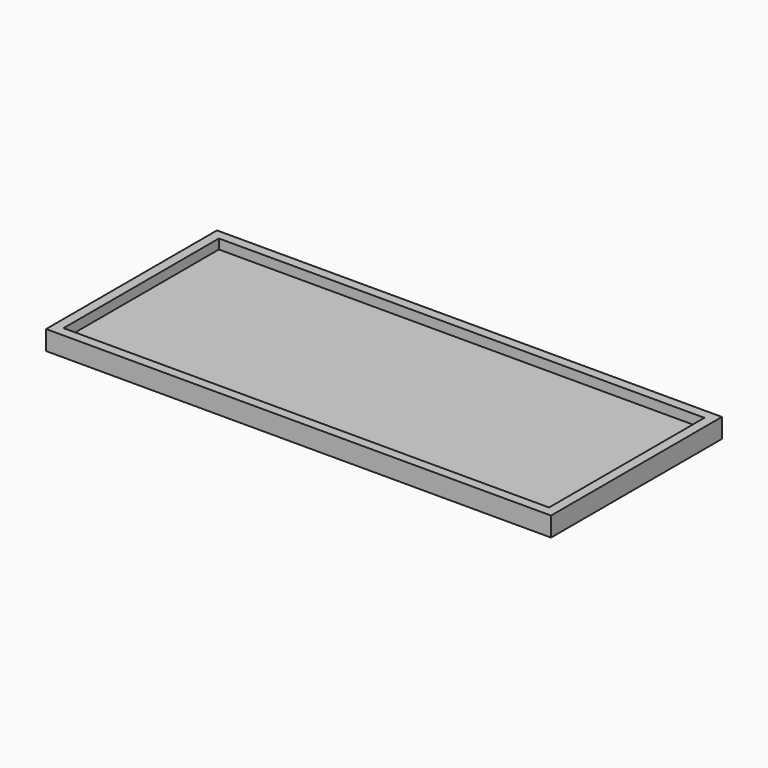
from build123d import *

# Parameters (mm, degrees)
F0_W     = 104
F0_H     = 44
F1_DEPTH = 4
F2_T     = -2
F4_DEPTH = 10


with BuildPart() as f1:
    # F0 (on Top) → F1 (new body)
    with BuildSketch(Plane.XY):
        with Locations((-52, 0)):
            Rectangle(F0_W, F0_H)
    extrude(amount=F1_DEPTH)

    # F2
    f2_openings = [f1.faces().sort_by_distance(p)[0] for p in [
        (-52, 0, 4),
    ]]
    offset(amount=F2_T, openings=f2_openings)

    # F3 (on face) → F4 (cut)
    with BuildSketch(Plane.XY):
        with BuildLine():
            Line((-82.539678, 22), (-21.460322, 22))
            ThreePointArc((-21.460322, 22), (-20.730103, 22.059424), (-20, 22.120252))
            Line((-20, 22.120252), (-20, 36.755234))
            Line((-20, 36.755234), (-84, 36.755234))
            Line((-84, 36.755234), (-84, 22.120252))
            ThreePointArc((-84, 22.120252), (-83.269897, 22.059424), (-82.539678, 22))
        make_face()
        with BuildLine():
            Line((-20, -36.755234), (-20, -22.120252))
            ThreePointArc((-20, -22.120252), (-20.730103, -22.059424), (-21.460322, -22))
            Line((-21.460322, -22), (-82.539678, -22))
            ThreePointArc((-82.539678, -22), (-83.269897, -22.059424), (-84, -22.120252))
            Line((-84, -22.120252), (-84, -36.755234))
            Line((-84, -36.755234), (-20, -36.755234))
        make_face()
    extrude(amount=F4_DEPTH, mode=Mode.SUBTRACT)


solid = f1.part
